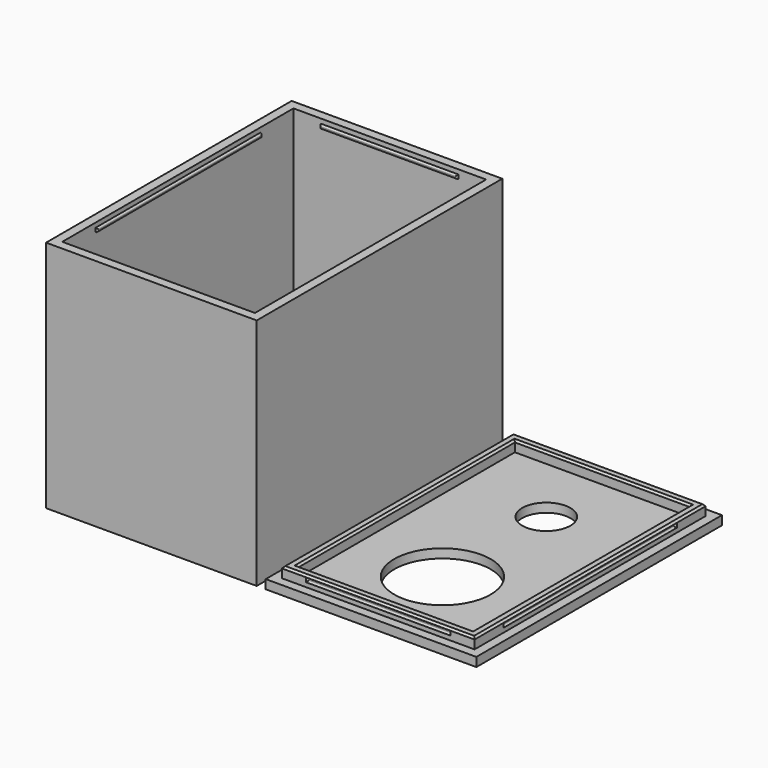
from build123d import *

# Parameters (mm, degrees)
SKETCH_W        = 65.6
SKETCH_H        = 95.6
PAD_DEPTH       = 72.8
SKETCH001_W     = 60
SKETCH001_H     = 90
POCKET_DEPTH    = 70
SKETCH002_W     = 42.75
SKETCH002_H     = 1.17
PAD001_DEPTH    = 0.6
SKETCH003_W     = 42.75
SKETCH003_H     = 1.17
PAD002_DEPTH    = 0.6
SKETCH004_W     = 64.125
SKETCH004_H     = 1.17
PAD003_DEPTH    = 0.6
SKETCH005_W     = 64.125
SKETCH005_H     = 1.17
PAD004_DEPTH    = 0.6
FILLET_R        = 0.45
SKETCH013_R     = 7.5
HOLE_DEPTH      = 25
HOLE_TIPS_R     = 7.5
SKETCH006_W     = 65.6
SKETCH006_H     = 95.6
PAD005_DEPTH    = 2.8
SKETCH007_W     = 60
SKETCH007_H     = 90
PAD006_DEPTH    = 3.3
SKETCH008_W     = 54.4
SKETCH008_H     = 84.4
POCKET001_DEPTH = 3.3
SKETCH009_W     = 45
SKETCH009_H     = 1.3
POCKET002_DEPTH = 0.6
SKETCH010_W     = 45
SKETCH010_H     = 1.3
POCKET003_DEPTH = 0.6
SKETCH011_W     = 67.5
SKETCH011_H     = 1.3
POCKET004_DEPTH = 0.6
SKETCH012_W     = 67.5
SKETCH012_H     = 1.3
POCKET005_DEPTH = 0.6
FILLET001_R     = 0.45
CHAMFER_SIZE    = 0.6
SKETCH014_R     = 7.5
SKETCH014_R_2   = 15
POCKET006_DEPTH = 5


with BuildPart() as box:
    # Sketch → Pad (new body)
    with BuildSketch(Plane.XY):
        Rectangle(SKETCH_W, SKETCH_H)
    extrude(amount=PAD_DEPTH)

    # Sketch001 (on Face6 of Pad) → Pocket (cut)
    with BuildSketch(Plane.XY.offset(72.8)):
        Rectangle(SKETCH001_W, SKETCH001_H)
    extrude(amount=-POCKET_DEPTH, mode=Mode.SUBTRACT)

    # Sketch002 (on Face10 of Pocket) → Pad001 (join)
    with BuildSketch(Plane(origin=(0, -45, 0), x_dir=(-1, 0, 0), z_dir=(0, 1, 0))):
        with Locations((0, 70.8)):
            Rectangle(SKETCH002_W, SKETCH002_H)
    extrude(amount=PAD001_DEPTH)

    # Sketch003 (on Face8 of Pad001) → Pad002 (join)
    with BuildSketch(Plane.XZ.offset(-45)):
        with Locations((0, 70.8)):
            Rectangle(SKETCH003_W, SKETCH003_H)
    extrude(amount=PAD002_DEPTH)

    # Sketch004 (on Face7 of Pad002) → Pad003 (join)
    with BuildSketch(Plane(origin=(30, 0, 0), x_dir=(0, -1, 0), z_dir=(-1, 0, 0))):
        with Locations((0, 70.8)):
            Rectangle(SKETCH004_W, SKETCH004_H)
    extrude(amount=PAD003_DEPTH)

    # Sketch005 (on Face9 of Pad003) → Pad004 (join)
    with BuildSketch(Plane.YZ.offset(-30)):
        with Locations((0, 70.8)):
            Rectangle(SKETCH005_W, SKETCH005_H)
    extrude(amount=PAD004_DEPTH)

    # Fillet
    fillet_edges = [box.edges().sort_by_distance(p)[0] for p in [
        (-29.4, 0, 71.385),
        (-29.4, -32.0625, 70.8),
        (-29.4, 0, 70.215),
        (-29.4, 32.0625, 70.8),
        (21.375, 44.4, 70.8),
        (0, 44.4, 71.385),
        (-21.375, 44.4, 70.8),
        (0, 44.4, 70.215),
        (29.4, 0, 71.385),
        (29.4, 32.0625, 70.8),
        (29.4, 0, 70.215),
        (29.4, -32.0625, 70.8),
        (0, -44.4, 71.385),
        (21.375, -44.4, 70.8),
        (0, -44.4, 70.215),
        (-21.375, -44.4, 70.8),
    ]]
    fillet(fillet_edges, radius=FILLET_R)

    # Sketch013 (on Face36 of Fillet) → Hole (cut)
    with BuildSketch(Plane(origin=(0, 0, 0), x_dir=(1, 0, 0), z_dir=(0, 0, -1))):
        Circle(SKETCH013_R)
    extrude(amount=-HOLE_DEPTH, mode=Mode.SUBTRACT)

    # Hole tips → Hole tip 1 section 0
    with BuildSketch(Plane(origin=(0, 0, 25), x_dir=(1, 0, 0), z_dir=(0, 0, -1)), mode=Mode.PRIVATE) as hole_tip_1_s0:
        Circle(HOLE_TIPS_R)
    loft([hole_tip_1_s0.sketch, Vertex(0, 0, 29.506455)], mode=Mode.SUBTRACT)


with BuildPart() as lid:
    # Sketch006 → Pad005 (new body)
    with BuildSketch(Plane.XY):
        Rectangle(SKETCH006_W, SKETCH006_H)
    extrude(amount=PAD005_DEPTH)

    # Sketch007 (on Face6 of Pad005) → Pad006 (join)
    with BuildSketch(Plane.XY.offset(2.8)):
        Rectangle(SKETCH007_W, SKETCH007_H)
    extrude(amount=PAD006_DEPTH)

    # Sketch008 (on Face11 of Pad006) → Pocket001 (cut)
    with BuildSketch(Plane.XY.offset(6.1)):
        Rectangle(SKETCH008_W, SKETCH008_H)
    extrude(amount=-POCKET001_DEPTH, mode=Mode.SUBTRACT)

    # Sketch009 (on Face10 of Pocket001) → Pocket002 (cut)
    with BuildSketch(Plane.XZ.offset(45)):
        with Locations((0, 4.8)):
            Rectangle(SKETCH009_W, SKETCH009_H)
    extrude(amount=-POCKET002_DEPTH, mode=Mode.SUBTRACT)

    # Sketch010 (on Face8 of Pocket002) → Pocket003 (cut)
    with BuildSketch(Plane(origin=(0, 45, 0), x_dir=(-1, 0, 0), z_dir=(0, 1, 0))):
        with Locations((0, 4.8)):
            Rectangle(SKETCH010_W, SKETCH010_H)
    extrude(amount=-POCKET003_DEPTH, mode=Mode.SUBTRACT)

    # Sketch011 (on Face7 of Pocket003) → Pocket004 (cut)
    with BuildSketch(Plane.YZ.offset(30)):
        with Locations((0, 4.8)):
            Rectangle(SKETCH011_W, SKETCH011_H)
    extrude(amount=-POCKET004_DEPTH, mode=Mode.SUBTRACT)

    # Sketch012 (on Face9 of Pocket004) → Pocket005 (cut)
    with BuildSketch(Plane(origin=(-30, 0, 0), x_dir=(0, -1, 0), z_dir=(-1, 0, 0))):
        with Locations((0, 4.8)):
            Rectangle(SKETCH012_W, SKETCH012_H)
    extrude(amount=-POCKET005_DEPTH, mode=Mode.SUBTRACT)

    # Fillet001
    fillet001_edges = [lid.edges().sort_by_distance(p)[0] for p in [
        (0, 44.4, 5.45),
        (22.5, 44.4, 4.8),
        (0, 44.4, 4.15),
        (-22.5, 44.4, 4.8),
        (29.4, 33.75, 4.8),
        (29.4, 0, 5.45),
        (29.4, -33.75, 4.8),
        (29.4, 0, 4.15),
        (0, -44.4, 5.45),
        (-22.5, -44.4, 4.8),
        (0, -44.4, 4.15),
        (22.5, -44.4, 4.8),
        (-29.4, -33.75, 4.8),
        (-29.4, 0, 5.45),
        (-29.4, 33.75, 4.8),
        (-29.4, 0, 4.15),
    ]]
    fillet(fillet001_edges, radius=FILLET001_R)

    # Chamfer
    chamfer_edges = [lid.edges().sort_by_distance(p)[0] for p in [
        (30, 0, 6.1),
        (0, -45, 6.1),
        (0, 45, 6.1),
        (-30, 0, 6.1),
        (27.2, 0, 6.1),
        (0, 42.2, 6.1),
        (-27.2, 0, 6.1),
        (0, -42.2, 6.1),
    ]]
    chamfer(chamfer_edges, length=CHAMFER_SIZE)

    # Sketch014 → Pocket006 (cut)
    with BuildSketch(Plane.XY):
        with Locations((0, 20.438464)):
            Circle(SKETCH014_R)
        with Locations((0, -20)):
            Circle(SKETCH014_R_2)
    extrude(amount=POCKET006_DEPTH, mode=Mode.SUBTRACT)


with BuildPart() as lid_1:
    # Body001 placement: moved
    add(lid.part.moved(Location((68.4, 0, 0))))


solid = Compound([box.part, lid_1.part])
